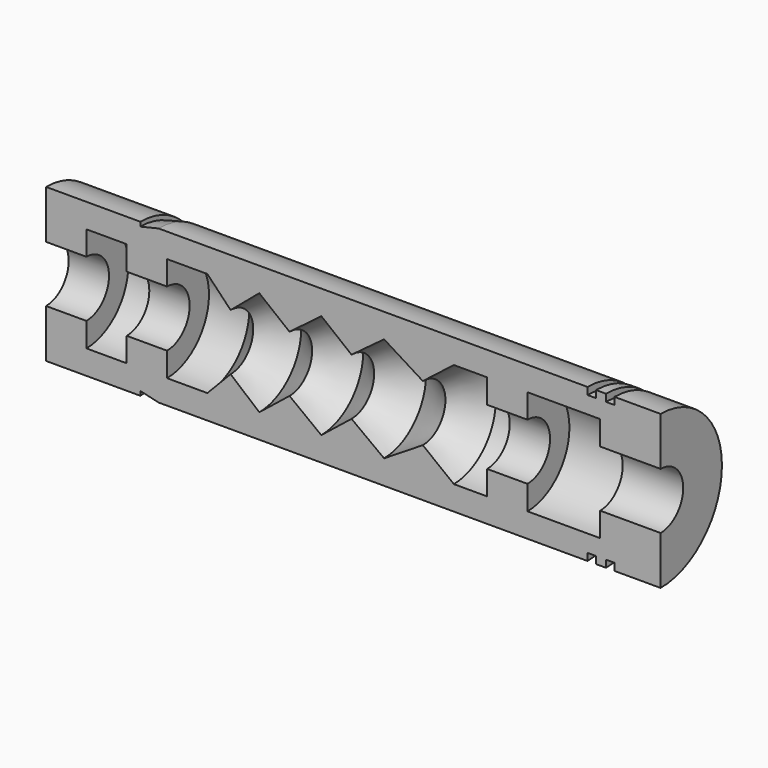
from build123d import *

# Parameters (mm, degrees)
F1_ANGLE = 180


with BuildPart() as f1:
    # F0 (on Front) → F1 (revolve)
    with BuildSketch(Plane.XZ):
        Polygon((-11.445345, 0), (0, 0), (0, 12), (-15, 12), (-15, 6), (-33.017854, 6), (-33.017854, 12), (-43.017854, 12), (-43.017854, 6), (-51.282207, 6), (-58.969983, 12), (-68.579697, 6), (-76.651861, 12), (-84.147439, 6), (-92.027408, 12), (-99.522983, 6), (-106.634174, 12), (-112.4, 6), (-122.4, 6), (-122.4, 12), (-132.4, 12), (-132.4, 6), (-142.4, 6), (-142.4, 12), (-152.4, 12), (-152.4, 0), (-129.020765, 0), (-129.020765, 1.065048), (-124.513626, 0), (-18.124375, 0), (-18.124375, 1.774913), (-16.015207, 1.774913), (-16.015207, 0), (-13.554512, 0), (-13.554512, 1.774913), (-11.445345, 1.774913), align=None)
    revolve(axis=Axis((-72.239956, 0, 19), (1, 0, 0)), revolution_arc=F1_ANGLE)


solid = f1.part
